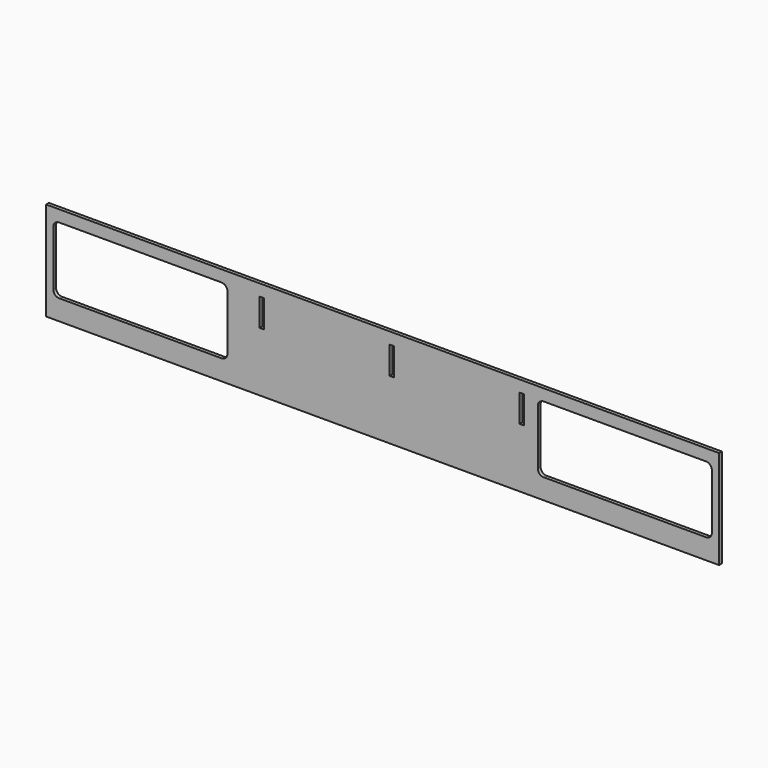
from build123d import *

# Parameters (mm, degrees)
F0_W     = 2320
F0_H     = 340
F0_W_2   = 16
F0_H_2   = 95
F2_DEPTH = 12
F1_W     = 2320
F1_H     = 340
F1_W_2   = 16
F1_H_2   = 95


with BuildPart() as f2:
    # F0 (on Front) → F2 (new body)
    with BuildSketch(Plane.XZ):
        with Locations((1160, 170)):
            Rectangle(F0_W, F0_H)
        with BuildLine():
            ThreePointArc((25, 280), (30.8578643763, 294.1421356237), (45, 300))
            Line((45, 300), (605, 300))
            ThreePointArc((605, 300), (619.1421356237, 294.1421356237), (625, 280))
            Line((625, 280), (625, 90))
            ThreePointArc((625, 90), (619.1421356237, 75.8578643763), (605, 70))
            Line((605, 70), (45, 70))
            ThreePointArc((45, 70), (30.8578643763, 75.8578643763), (25, 90))
            Line((25, 90), (25, 280))
        make_face(mode=Mode.SUBTRACT)
        with Locations((744, 252.5)):
            Rectangle(F0_W_2, F0_H_2, mode=Mode.SUBTRACT)
        with Locations((1192, 252.5)):
            Rectangle(F0_W_2, F0_H_2, mode=Mode.SUBTRACT)
        with Locations((1640, 252.5)):
            Rectangle(F0_W_2, F0_H_2, mode=Mode.SUBTRACT)
        with BuildLine():
            Line((1715, 300), (2275, 300))
            ThreePointArc((2275, 300), (2289.1421356237, 294.1421356237), (2295, 280))
            Line((2295, 280), (2295, 90))
            ThreePointArc((2295, 90), (2289.1421356237, 75.8578643763), (2275, 70))
            Line((2275, 70), (1715, 70))
            ThreePointArc((1715, 70), (1700.8578643763, 75.8578643763), (1695, 90))
            Line((1695, 90), (1695, 280))
            ThreePointArc((1695, 280), (1700.8578643763, 294.1421356237), (1715, 300))
        make_face(mode=Mode.SUBTRACT)
    extrude(amount=F2_DEPTH)


with BuildPart() as f2b:
    # F1 (on face) → F2, piece 2 (new body)
    with BuildSketch(Plane.XZ):
        with Locations((1160, 170)):
            Rectangle(F1_W, F1_H)
        with BuildLine():
            Line((25, 90), (25, 280))
            ThreePointArc((25, 280), (30.8578643763, 294.1421356237), (45, 300))
            Line((45, 300), (605, 300))
            ThreePointArc((605, 300), (619.1421356237, 294.1421356237), (625, 280))
            Line((625, 280), (625, 90))
            ThreePointArc((625, 90), (619.1421356237, 75.8578643763), (605, 70))
            Line((605, 70), (45, 70))
            ThreePointArc((45, 70), (30.8578643763, 75.8578643763), (25, 90))
        make_face(mode=Mode.SUBTRACT)
        with Locations((744, 252.5)):
            Rectangle(F1_W_2, F1_H_2, mode=Mode.SUBTRACT)
        with Locations((1192, 252.5)):
            Rectangle(F1_W_2, F1_H_2, mode=Mode.SUBTRACT)
        with Locations((1640, 252.5)):
            Rectangle(F1_W_2, F1_H_2, mode=Mode.SUBTRACT)
        with BuildLine():
            ThreePointArc((1695, 280), (1700.8578643763, 294.1421356237), (1715, 300))
            Line((1715, 300), (2275, 300))
            ThreePointArc((2275, 300), (2289.1421356237, 294.1421356237), (2295, 280))
            Line((2295, 280), (2295, 90))
            ThreePointArc((2295, 90), (2289.1421356237, 75.8578643763), (2275, 70))
            Line((2275, 70), (1715, 70))
            ThreePointArc((1715, 70), (1700.8578643763, 75.8578643763), (1695, 90))
            Line((1695, 90), (1695, 280))
        make_face(mode=Mode.SUBTRACT)
    extrude(amount=F2_DEPTH)


solid = Compound([f2.part, f2b.part])
